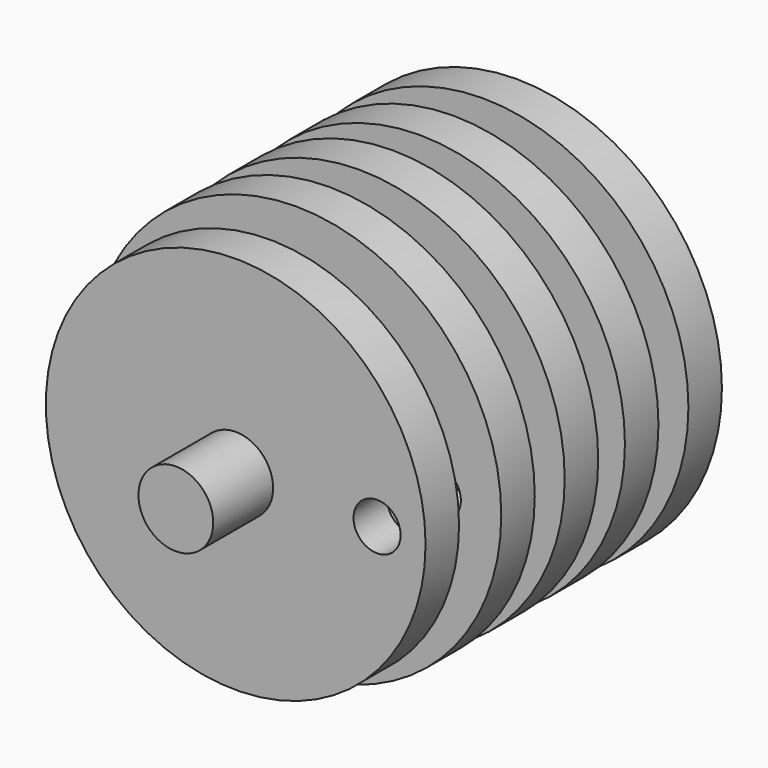
from build123d import *

# Parameters (mm, degrees)
F0_R      = 96.700086
F0_R_2    = 11.999976
F1_DEPTH  = 21.336
F2_R      = 19.05
F3_DEPTH  = 38.1
F5_R      = 104.57561
F5_R_2    = 12.0015
F5_R_3    = 19.05
F6_DEPTH  = 21.336
F7_DEPTH  = 61.722
F9_R      = 104.57561
F9_R_2    = 12.0015
F10_DEPTH = 21.336
F12_R     = 104.57561
F12_R_2   = 12.0015
F12_R_3   = 19.05
F13_DEPTH = 21.336
F14_DEPTH = 61.722
F16_R     = 104.5845
F16_R_2   = 12.0015
F17_DEPTH = 21.336


with BuildPart() as f1:
    # F0 (on Front) → F1 (new body)
    with BuildSketch(Plane.XZ):
        Circle(F0_R)
        with Locations((72.00011, 0)):
            Circle(F0_R_2, mode=Mode.SUBTRACT)
    extrude(amount=-F1_DEPTH)

    # F2 (on face) → F3 (join)
    with BuildSketch(Plane.XZ):
        Circle(F2_R)
    extrude(amount=F3_DEPTH)


with BuildPart() as f6:
    # F5 (on offset) → F6 (new body)
    with BuildSketch(Plane(origin=(0, 38.354, 0), x_dir=(-1, 0, 0), z_dir=(0, 1, 0))):
        Circle(F5_R)
        with Locations((-72.00011, 0)):
            Circle(F5_R_2, mode=Mode.SUBTRACT)
        Circle(F5_R_3, mode=Mode.SUBTRACT)
    extrude(amount=F6_DEPTH)

    # F5 (on offset) → F7 (join)
    with BuildSketch(Plane(origin=(0, 38.354, 0), x_dir=(-1, 0, 0), z_dir=(0, 1, 0))):
        Circle(F5_R_3)
    extrude(amount=F7_DEPTH)

    # F9 (on offset) → F10 (join)
    with BuildSketch(Plane(origin=(0, 78.74, 0), x_dir=(-1, 0, 0), z_dir=(0, 1, 0))):
        Circle(F9_R)
        with Locations((-72.00011, 0)):
            Circle(F9_R_2, mode=Mode.SUBTRACT)
    extrude(amount=F10_DEPTH)


with BuildPart() as f13:
    # F12 (on offset) → F13 (new body)
    with BuildSketch(Plane(origin=(0, 117.094, 0), x_dir=(-1, 0, 0), z_dir=(0, 1, 0))):
        Circle(F12_R)
        with Locations((-72.00011, 0)):
            Circle(F12_R_2, mode=Mode.SUBTRACT)
        Circle(F12_R_3, mode=Mode.SUBTRACT)
    extrude(amount=F13_DEPTH)

    # F12 (on offset) → F14 (join)
    with BuildSketch(Plane(origin=(0, 117.094, 0), x_dir=(-1, 0, 0), z_dir=(0, 1, 0))):
        Circle(F12_R_3)
    extrude(amount=F14_DEPTH)

    # F16 (on offset) → F17 (join)
    with BuildSketch(Plane(origin=(0, 157.48, 0), x_dir=(-1, 0, 0), z_dir=(0, 1, 0))):
        Circle(F16_R)
        with Locations((0, -72.009)):
            Circle(F16_R_2, mode=Mode.SUBTRACT)
    extrude(amount=F17_DEPTH)


solid = Compound([f1.part, f6.part, f13.part])
